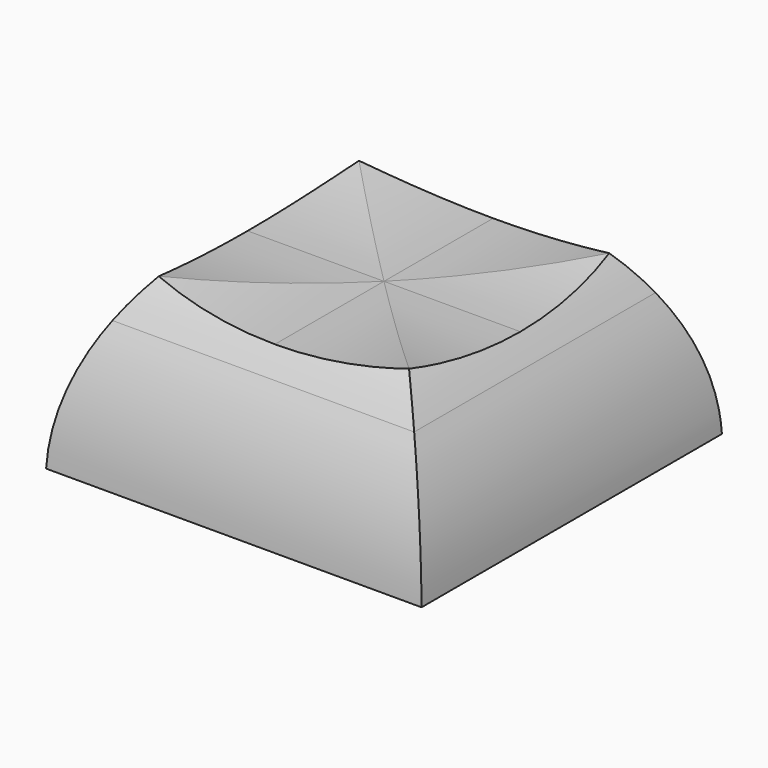
from build123d import *

# Parameters (mm, degrees)
F0_W      = 18
F0_H      = 18
F1_DEPTH  = 7.874
F4_DEPTH  = 25
F5_DEPTH  = 25
F6_T      = -1.6
F7_R      = 2.77
F8_DEPTH  = 7
F10_DEPTH = 3
F12_DEPTH = 0.2
F13_DEPTH = 1
F14_DEPTH = 1


with BuildPart() as f1:
    # F0 (on Top) → F1 (new body)
    with BuildSketch(Plane.XY):
        Rectangle(F0_W, F0_H)
    extrude(amount=F1_DEPTH)

    # F3 (on face) → F4 (cut)
    with BuildSketch(Plane(origin=(-9, 0, 0), x_dir=(0, -1, 0), z_dir=(-1, 0, 0))):
        with BuildLine():
            Line((-6, 7.874), (-9, 7.874))
            Line((-9, 7.874), (-7.232233047, 6.106233047))
            ThreePointArc((-7.232233047, 6.106233047), (-6.6524748606, 7.0154603305), (-6, 7.874))
        make_face()
        with BuildLine():
            Line((-7.232233047, 6.106233047), (-9, 7.874))
            Line((-9, 7.874), (-9, 0))
            ThreePointArc((-9, 0), (-8.491581374, 3.1618143655), (-7.232233047, 6.106233047))
        make_face()
        with BuildLine():
            Line((0, 7.874), (-6, 7.874))
            ThreePointArc((-6, 7.874), (-3.0203476621, 7.3495914676), (0, 7.174))
            Line((0, 7.174), (0, 7.874))
        make_face()
        with BuildLine():
            Line((0, 7.874), (0, 7.174))
            ThreePointArc((0, 7.174), (3.0203476621, 7.3495914676), (6, 7.874))
            Line((6, 7.874), (0, 7.874))
        make_face()
        with BuildLine():
            Line((9, 7.874), (6, 7.874))
            ThreePointArc((6, 7.874), (6.6524748606, 7.0154603305), (7.232233047, 6.106233047))
            Line((7.232233047, 6.106233047), (9, 7.874))
        make_face()
        with BuildLine():
            ThreePointArc((7.232233047, 6.106233047), (8.491581374, 3.1618143655), (9, 0))
            Line((9, 0), (9, 7.874))
            Line((9, 7.874), (7.232233047, 6.106233047))
        make_face()
    extrude(amount=-F4_DEPTH, mode=Mode.SUBTRACT)

    # F2 (on face) → F5 (cut)
    with BuildSketch(Plane.XZ.offset(9)):
        with BuildLine():
            Line((-7.232233047, 6.106233047), (-9, 7.874))
            Line((-9, 7.874), (-9, 0))
            ThreePointArc((-9, 0), (-8.491581374, 3.1618143655), (-7.232233047, 6.106233047))
        make_face()
        with BuildLine():
            Line((-6, 7.874), (-9, 7.874))
            Line((-9, 7.874), (-7.232233047, 6.106233047))
            ThreePointArc((-7.232233047, 6.106233047), (-6.6524748606, 7.0154603305), (-6, 7.874))
        make_face()
        with BuildLine():
            Line((6, 7.874), (0, 7.874))
            Line((0, 7.874), (0, 7.174))
            ThreePointArc((0, 7.174), (3.0203476621, 7.3495914676), (6, 7.874))
        make_face()
        with BuildLine():
            Line((0, 7.874), (-6, 7.874))
            ThreePointArc((-6, 7.874), (-3.0203476621, 7.3495914676), (0, 7.174))
            Line((0, 7.174), (0, 7.874))
        make_face()
        with BuildLine():
            Line((9, 7.874), (6, 7.874))
            ThreePointArc((6, 7.874), (6.6524748606, 7.0154603305), (7.232233047, 6.106233047))
            Line((7.232233047, 6.106233047), (9, 7.874))
        make_face()
        with BuildLine():
            ThreePointArc((7.232233047, 6.106233047), (8.491581374, 3.1618143655), (9, 0))
            Line((9, 0), (9, 7.874))
            Line((9, 7.874), (7.232233047, 6.106233047))
        make_face()
    extrude(amount=-F5_DEPTH, mode=Mode.SUBTRACT)

    # F6
    f6_openings = [f1.faces().sort_by_distance(p)[0] for p in [
        (0, 0, 0),
    ]]
    offset(amount=F6_T, openings=f6_openings)

    # F7 (on face) → F8 (join)
    with BuildSketch(Plane(origin=(0, 0, 0), x_dir=(1, 0, 0), z_dir=(0, 0, -1))):
        Circle(F7_R)
        Polygon((0.7, 2.1), (0.7, 0.7), (2.1, 0.7), (2.1, 0), (2.1, -0.7), (0.7, -0.7), (0.7, -2.1), (0, -2.1), (-0.7, -2.1), (-0.7, -0.7), (-2.1, -0.7), (-2.1, 0), (-2.1, 0.7), (-0.7, 0.7), (-0.7, 2.1), (0, 2.1), align=None, mode=Mode.SUBTRACT)
    extrude(amount=-F8_DEPTH)

    # F9 (on face) → F10 (cut)
    with BuildSketch(Plane(origin=(0, 0, 0), x_dir=(1, 0, 0), z_dir=(0, 0, -1))):
        with BuildLine():
            Line((-2.1, -0.7), (-2.1, 0.7))
            Line((-2.1, 0.7), (-2.680093282, 0.7))
            ThreePointArc((-2.680093282, 0.7), (-2.77, 0), (-2.680093282, -0.7))
            Line((-2.680093282, -0.7), (-2.1, -0.7))
        make_face()
        with BuildLine():
            ThreePointArc((2.77, 0), (2.7474313814, 0.3528750551), (2.680093282, 0.7))
            Line((2.680093282, 0.7), (2.1, 0.7))
            Line((2.1, 0.7), (2.1, -0.7))
            Line((2.1, -0.7), (2.680093282, -0.7))
            ThreePointArc((2.680093282, -0.7), (2.7474313814, -0.3528750551), (2.77, 0))
        make_face()
    extrude(amount=-F10_DEPTH, mode=Mode.SUBTRACT)

    # F11 (on face) → F12 (join)
    with BuildSketch(Plane(origin=(0, 0, 0), x_dir=(1, 0, 0), z_dir=(0, 0, -1))):
        with BuildLine():
            ThreePointArc((-2.680093282, 0.7), (0, 2.77), (2.680093282, 0.7))
            Line((2.680093282, 0.7), (2.680093282, 6.7))
            Line((2.680093282, 6.7), (-2.680093282, 6.7))
            Line((-2.680093282, 6.7), (-2.680093282, 0.7))
        make_face()
        Polygon((-0.700093282, -0.7), (-2.680093282, -0.7), (-2.680093282, -6.7), (2.679906718, -6.7), (2.679906718, -0.7), (0.699906718, -0.7), (0.699906718, -2.1), (-0.700093282, -2.1), align=None)
    extrude(amount=-F12_DEPTH)

    # F13 (add): a face of the model
    f13_faces = [f1.faces().sort_by_distance(p)[0] for p in [
        (0, -6.7, 0.1),
    ]]
    extrude(f13_faces, amount=F13_DEPTH)

    # F14 (add): a face of the model
    f14_faces = [f1.faces().sort_by_distance(p)[0] for p in [
        (-9.3282e-05, 6.7, 0.1),
    ]]
    extrude(f14_faces, amount=F14_DEPTH)


solid = f1.part
